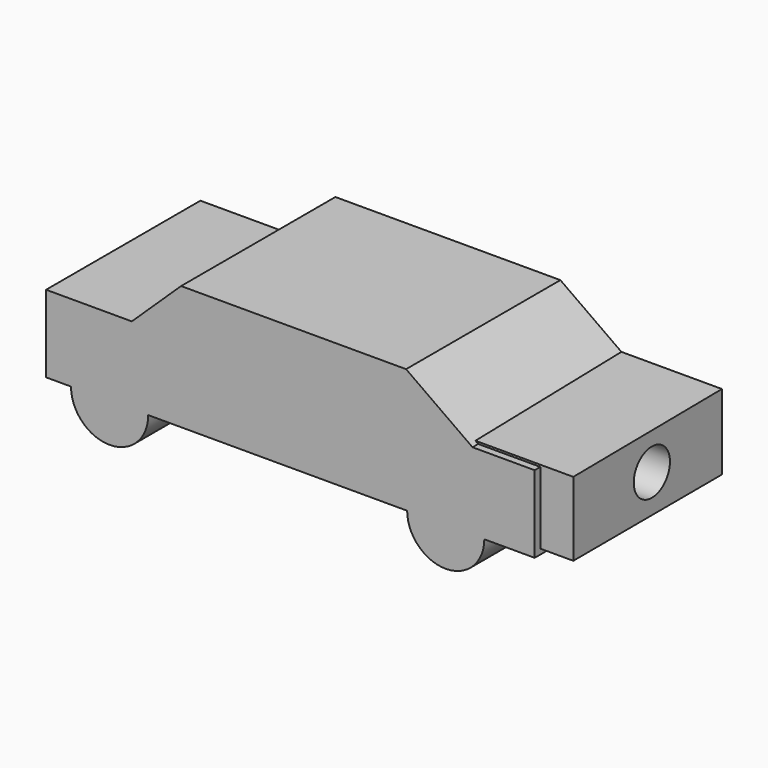
from build123d import *

# Parameters (mm, degrees)
F1_DEPTH = 25
F2_R     = 4.75
F3_DEPTH = 51.2
F5_DEPTH = 20.8
F6_R     = 2.931006
F7_DEPTH = 45.7


with BuildPart() as f1:
    # F0 (on Front) → F1 (new body)
    with BuildSketch(Plane.XZ):
        with BuildLine():
            Line((-46.805558, 22.916667), (-46.805558, 12.916667))
            Line((-46.805558, 12.916667), (-43.568752, 12.916667))
            ThreePointArc((-43.568752, 12.916667), (-38.568828, 17.889121), (-33.568904, 12.916667))
            Line((-33.568904, 12.916667), (-29.305557, 12.916667))
            Line((-29.305557, 12.916667), (0, 12.916667))
            ThreePointArc((0, 12.916667), (5, 17.916667), (10, 12.916667))
            Line((10, 12.916667), (16.527779, 12.916667))
            Line((16.527779, 12.916667), (16.527779, 22.916667))
            Line((16.527779, 22.916667), (8.472223, 22.916667))
            Line((8.472223, 22.916667), (-0.13889, 29.02778))
            Line((-0.13889, 29.02778), (-29.305557, 29.02778))
            Line((-29.305557, 29.02778), (-35.694448, 22.916667))
            Line((-35.694448, 22.916667), (-46.805558, 22.916667))
        make_face()
        with BuildLine():
            ThreePointArc((-33.568904, 12.916667), (-38.568828, 17.889121), (-43.568752, 12.916667))
            ThreePointArc((-43.568752, 12.916667), (-38.582602, 7.88914), (-33.568828, 12.889121))
            ThreePointArc((-33.568828, 12.889121), (-33.568847, 12.902894), (-33.568904, 12.916667))
        make_face()
        with BuildLine():
            ThreePointArc((10, 12.916667), (5, 17.916667), (0, 12.916667))
            ThreePointArc((0, 12.916667), (5, 7.916667), (10, 12.916667))
        make_face()
    extrude(amount=F1_DEPTH)

    # F2 (on Right) → F3 (cut, symmetric)
    with BuildSketch(Plane.YZ):
        with Locations((-13.057046, 18.02115)):
            Circle(F2_R)
    extrude(amount=F3_DEPTH, both=True, mode=Mode.SUBTRACT)

    # F4 (on Right) → F5 (join)
    with BuildSketch(Plane.YZ):
        Polygon((0, 23.411883), (-24.079781, 23.172596), (-24.079781, 13.592975), (-21.914035, 13.598205), (0, 13.65112), align=None)
    extrude(amount=F5_DEPTH)

    # F6 (on Right) → F7 (cut)
    with BuildSketch(Plane.YZ):
        with Locations((-11.352646, 18.537864)):
            Circle(F6_R)
    extrude(amount=F7_DEPTH, mode=Mode.SUBTRACT)


solid = f1.part
